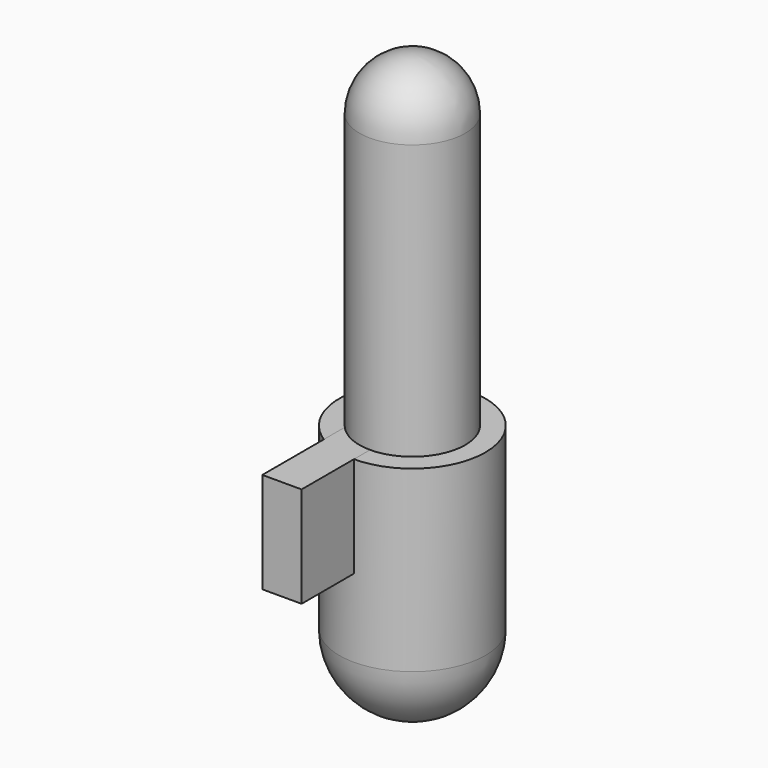
from build123d import *

# Parameters (mm, degrees)
F0_R     = 2.1
F1_DEPTH = 13
F0_R_2   = 2.9
F2_DEPTH = 10
F3_R     = 2.1
F4_R     = 2.9
F5_W     = 1.56
F5_H     = 4
F6_DEPTH = 5.5


with BuildPart() as f1:
    # F0 (on Top) → F1 (new body)
    with BuildSketch(Plane.XY):
        Circle(F0_R)
    extrude(amount=F1_DEPTH)

    # F0 (on Top) → F2 (join)
    with BuildSketch(Plane.XY):
        Circle(F0_R_2)
        Circle(F0_R, mode=Mode.SUBTRACT)
        Circle(F0_R)
    extrude(amount=-F2_DEPTH)

    # F3
    f3_edges = [f1.edges().sort_by_distance(p)[0] for p in [
        (-2.1, 0, 13),
    ]]
    fillet(f3_edges, radius=F3_R)

    # F4
    f4_edges = [f1.edges().sort_by_distance(p)[0] for p in [
        (-2.9, 0, -10),
    ]]
    fillet(f4_edges, radius=F4_R)


with BuildPart() as f6:
    # F5 (on Front) → F6 (new body)
    with BuildSketch(Plane.XZ):
        with Locations((-0.78, -2)):
            Rectangle(F5_W, F5_H)
    extrude(amount=F6_DEPTH)


solid = Compound([f1.part, f6.part])
